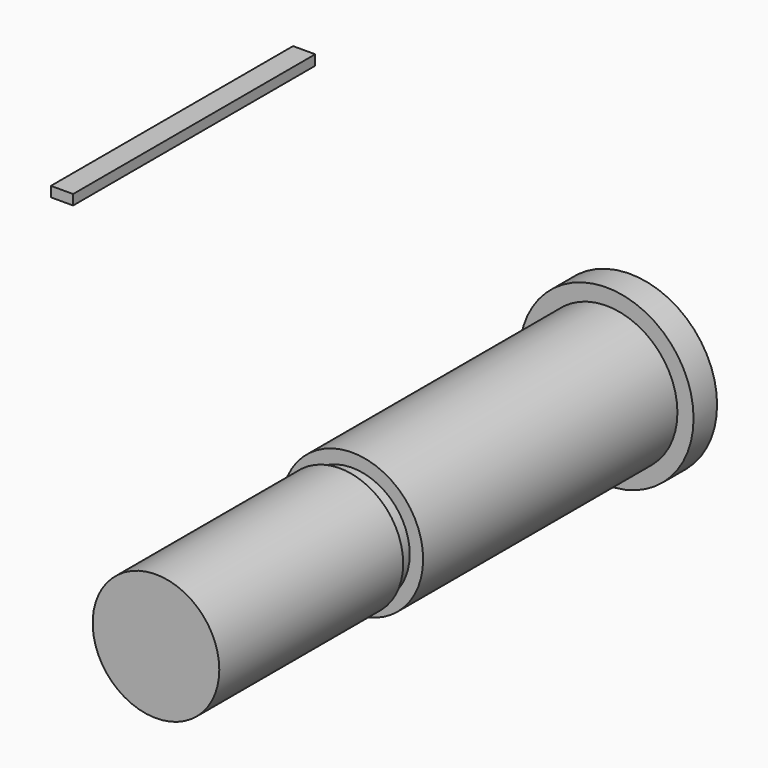
from build123d import *

# Parameters (mm, degrees)
F0_R     = 17.4625
F1_DEPTH = 5.8928
F2_R     = 14.224
F3_DEPTH = 63.754
F4_R     = 11.5316
F5_DEPTH = 3.0988
F6_R     = 12.7
F7_DEPTH = 46.101
F8_W     = 4.445
F8_H     = 2.032
F9_DEPTH = 60.706


with BuildPart() as f1:
    # F0 (on Front) → F1 (new body)
    with BuildSketch(Plane.XZ):
        Circle(F0_R)
    extrude(amount=F1_DEPTH)

    # F2 (on face) → F3 (join)
    with BuildSketch(Plane.XZ.offset(5.8928)):
        Circle(F2_R)
    extrude(amount=F3_DEPTH)

    # F4 (on face) → F5 (join)
    with BuildSketch(Plane.XZ.offset(69.6468)):
        Circle(F4_R)
    extrude(amount=F5_DEPTH)

    # F6 (on face) → F7 (join)
    with BuildSketch(Plane.XZ.offset(72.7456)):
        Circle(F6_R)
    extrude(amount=F7_DEPTH)


with BuildPart() as f9:
    # F8 (on Front) → F9 (new body)
    with BuildSketch(Plane.XZ):
        with Locations((-65.360592, 34.677008)):
            Rectangle(F8_W, F8_H)
    extrude(amount=F9_DEPTH)


solid = Compound([f1.part, f9.part])
